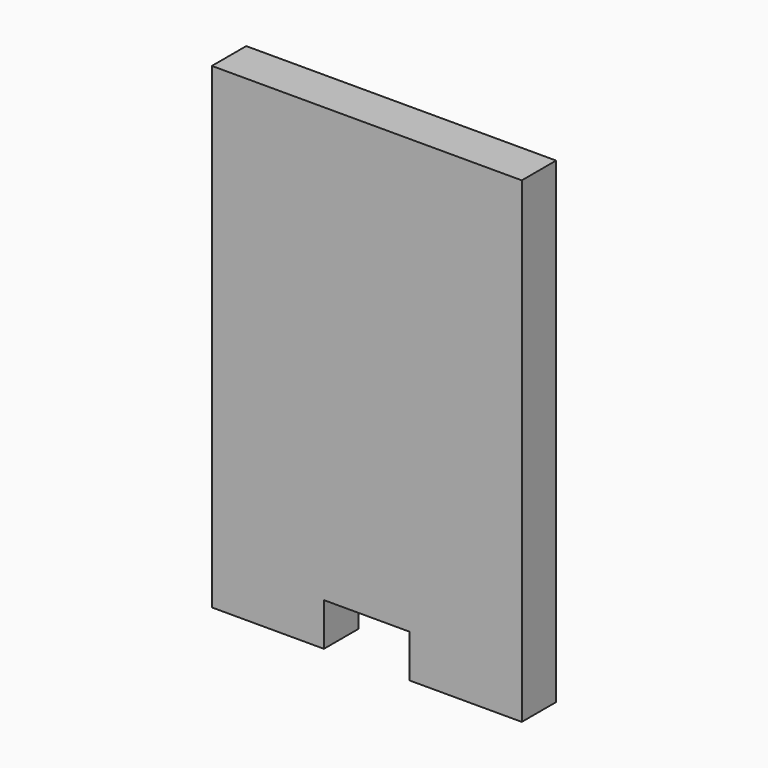
from build123d import *

# Parameters (mm, degrees)
F0_W     = 65
F0_H     = 100
F1_DEPTH = 9
F3_DEPTH = 9.001


with BuildPart() as f1:
    # F0 (on Front) → F1 (new body)
    with BuildSketch(Plane.XZ):
        Rectangle(F0_W, F0_H)
    extrude(amount=F1_DEPTH)

    # F2 (on face) → F3 (cut, through all)
    with BuildSketch(Plane.XZ.offset(9)):
        Polygon((9, -41), (0, -41), (-9, -41), (-9, -50), (0, -50), (9, -50), align=None)
    extrude(amount=-F3_DEPTH, mode=Mode.SUBTRACT)


solid = f1.part
